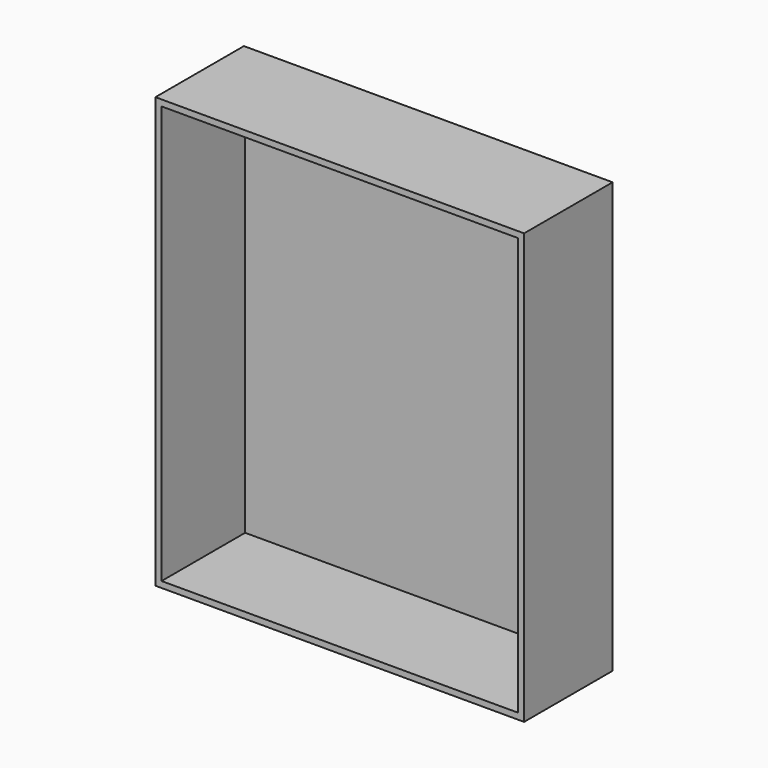
from build123d import *

# Parameters (mm, degrees)
F0_W     = 60
F0_H     = 70
F1_DEPTH = 18
F2_T     = -1


with BuildPart() as f1:
    # F0 (on Front) → F1 (new body)
    with BuildSketch(Plane.XZ):
        Rectangle(F0_W, F0_H)
    extrude(amount=-F1_DEPTH)

    # F2
    f2_openings = [f1.faces().sort_by_distance(p)[0] for p in [
        (0, 0, 0),
    ]]
    offset(amount=F2_T, openings=f2_openings)


solid = f1.part
